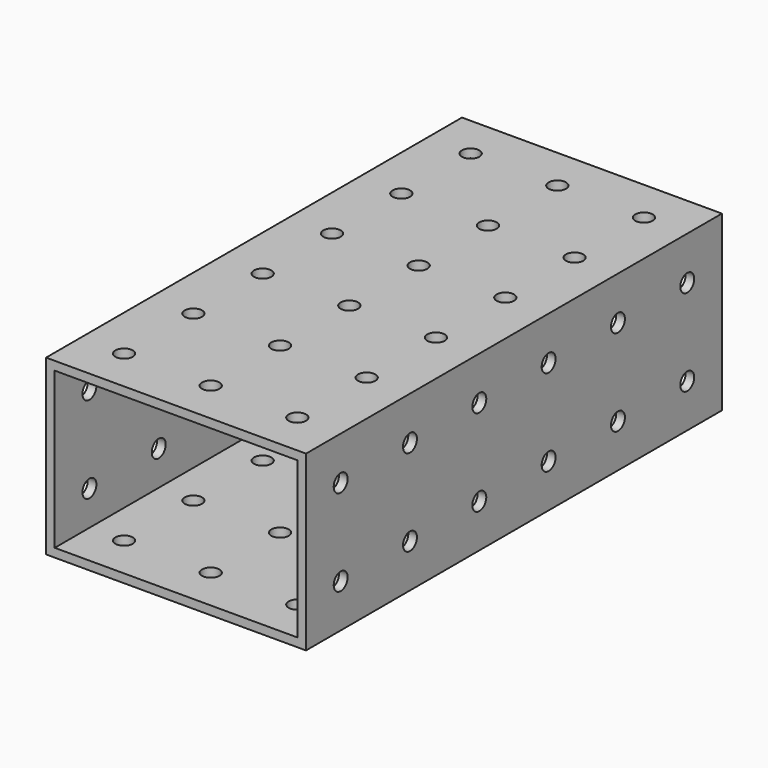
from build123d import *

# Parameters (mm, degrees)
F0_W     = 76.2
F0_H     = 152.4
F1_DEPTH = 50.8
F3_D     = 5.1054
F5_D     = 5.1054
F6_W     = 71.12
F6_H     = 45.72
F7_DEPTH = 152.4


with BuildPart() as f1:
    # F0 (on Top) → F1 (new body)
    with BuildSketch(Plane.XY):
        with Locations((3.184349, -12.893389)):
            Rectangle(F0_W, F0_H)
    extrude(amount=F1_DEPTH)

    # F3 (through all)
    with Locations(Plane.XY.offset(50.8)):
        with Locations((-22.215651, -0.193389), (28.584349, -0.193389), (3.184349, -50.993389), (3.184349, -25.593389), (28.584349, -50.993389), (28.584349, -25.593389), (28.584349, 25.206611), (28.584349, -76.393389), (3.184349, 50.606611), (3.184349, -76.393389), (28.584349, 50.606611), (3.184349, -0.193389), (3.184349, 25.206611), (-22.215651, 25.206611), (-22.215651, -76.393389), (-22.215651, 50.606611), (-22.215651, -25.593389), (-22.215651, -50.993389)):
            Hole(F3_D / 2)

    # F5 (through all)
    with Locations(Plane.YZ.offset(41.284349)):
        with Locations((-25.593389, 38.1), (-0.193389, 12.7), (-50.993389, 38.1), (-25.593389, 12.7), (50.606611, 12.7), (50.606611, 38.1), (-0.193389, 38.1), (25.206611, 12.7), (-50.993389, 12.7), (-76.393389, 12.7), (-76.393389, 38.1), (25.206611, 38.1)):
            Hole(F5_D / 2)

    # F6 (on face) → F7 (cut)
    with BuildSketch(Plane(origin=(0, 63.306611, 0), x_dir=(-1, 0, 0), z_dir=(0, 1, 0))):
        with Locations((-3.184349, 25.4)):
            Rectangle(F6_W, F6_H)
    extrude(amount=-F7_DEPTH, mode=Mode.SUBTRACT)


solid = f1.part
